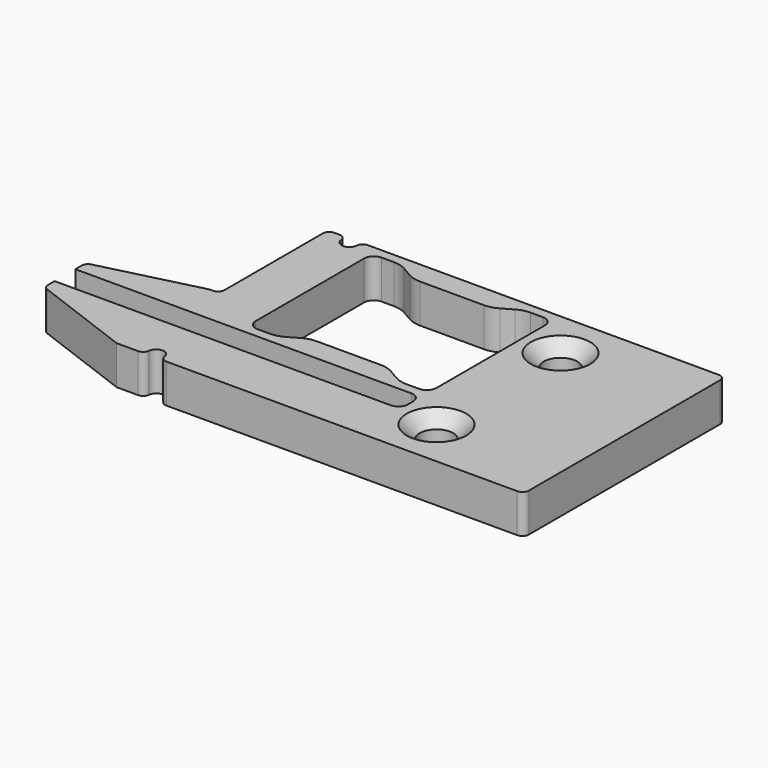
from build123d import *

# Parameters (mm, degrees)
SKETCH_R     = 1.3
SKETCH_W     = 14
SKETCH_H     = 12
PAD_DEPTH    = 3
FILLET_R     = 0.75
POCKET_DEPTH = 5
FILLET001_R  = 0.5
CHAMFER_SIZE = 1
PAD001_DEPTH = 3
FILLET002_R  = 2
SKETCH004_W  = 0.400118
SKETCH004_H  = 2.725121
PAD002_DEPTH = 0.2


with BuildPart() as part:
    # Sketch (on XY_Plane of Origin) → Pad (new body)
    with BuildSketch(Plane.XY):
        Polygon((-9.75, -9.75), (9.75, -9.75), (9.75, 9.75), (-9.75, 9.75), (-21, 9.75), (-21, -0.75), (-21.75, -0.75), (-29.75, -2.75), (-29.75, -3.75), (-3, -3.75), (-3, -5.75), (-29.75, -5.75), (-29.75, -6.75), (-21.75, -9.75), align=None)
        with Locations((0, 6)):
            Circle(SKETCH_R, mode=Mode.SUBTRACT)
        with Locations((0, -6)):
            Circle(SKETCH_R, mode=Mode.SUBTRACT)
        with Locations((-10, 3)):
            Rectangle(SKETCH_W, SKETCH_H, mode=Mode.SUBTRACT)
    extrude(amount=PAD_DEPTH)

    # Fillet
    fillet_edges = [part.edges().sort_by_distance(p)[0] for p in [
        (-3, -3, 1.5),
        (-3, 9, 1.5),
        (-17, 9, 1.5),
        (-17, -3, 1.5),
        (-3, -3.75, 1.5),
        (-3, -5.75, 1.5),
    ]]
    fillet(fillet_edges, radius=FILLET_R)

    # Sketch002 (on Face26 of Fillet) → Pocket (cut)
    with BuildSketch(Plane.XY.offset(3)):
        with BuildLine():
            ThreePointArc((-18.4, -9.353833), (-19, -8.753833), (-19.6, -9.353833))
            Line((-19.6, -9.353833), (-19.6, -11.103725))
            ThreePointArc((-19.6, -11.103725), (-19, -11.703725), (-18.4, -11.103725))
            Line((-18.4, -9.353833), (-18.4, -11.103725))
        make_face()
        with BuildLine():
            ThreePointArc((-18.4, 12.382466), (-19, 12.982466), (-19.6, 12.382466))
            Line((-19.6, 12.382466), (-19.6, 9.326973))
            ThreePointArc((-19.6, 9.326973), (-19, 8.726973), (-18.4, 9.326973))
            Line((-18.4, 12.382466), (-18.4, 9.326973))
        make_face()
    extrude(amount=-POCKET_DEPTH, mode=Mode.SUBTRACT)

    # Fillet001
    fillet001_edges = [part.edges().sort_by_distance(p)[0] for p in [
        (-21, 9.75, 1.5),
        (-21, -0.75, 1.5),
        (9.75, -9.75, 1.5),
        (9.75, 9.75, 1.5),
        (-19.6, 9.75, 1.5),
        (-18.4, 9.75, 1.5),
        (-19.6, -9.75, 1.5),
        (-18.4, -9.75, 1.5),
        (-29.75, -6.75, 1.5),
        (-29.75, -2.75, 1.5),
    ]]
    fillet(fillet001_edges, radius=FILLET001_R)

    # Chamfer
    chamfer_edges = [part.edges().sort_by_distance(p)[0] for p in [
        (-1.3, 6, 3),
        (-1.3, -6, 3),
    ]]
    chamfer(chamfer_edges, length=CHAMFER_SIZE)

    # Sketch003 (on Face4 of Chamfer) → Pad001 (join)
    with BuildSketch(Plane.XY.offset(3)):
        Polygon((-14.75, 9), (-13.017949, 8), (-6.982051, 8), (-5.25, 9), align=None)
        Polygon((-14.75, -3), (-13.017949, -2), (-6.982051, -2), (-5.25, -3), align=None)
    extrude(amount=-PAD001_DEPTH)

    # Fillet002
    fillet002_edges = [part.edges().sort_by_distance(p)[0] for p in [
        (-5.25, -3, 1.5),
        (-14.75, -3, 1.5),
        (-13.017949, -2, 1.5),
        (-6.982051, -2, 1.5),
        (-5.25, 9, 1.5),
        (-6.982051, 8, 1.5),
        (-13.017949, 8, 1.5),
        (-14.75, 9, 1.5),
    ]]
    fillet(fillet002_edges, radius=FILLET002_R)

    # Sketch004 (on Face1 of Fillet002) → Pad002 (join)
    with BuildSketch(Plane(origin=(0, 0, 0), x_dir=(1, 0, 0), z_dir=(0, 0, -1))):
        with Locations((-25.583762, 4.610938)):
            Rectangle(SKETCH004_W, SKETCH004_H)
    extrude(amount=-PAD002_DEPTH)


solid = part.part
